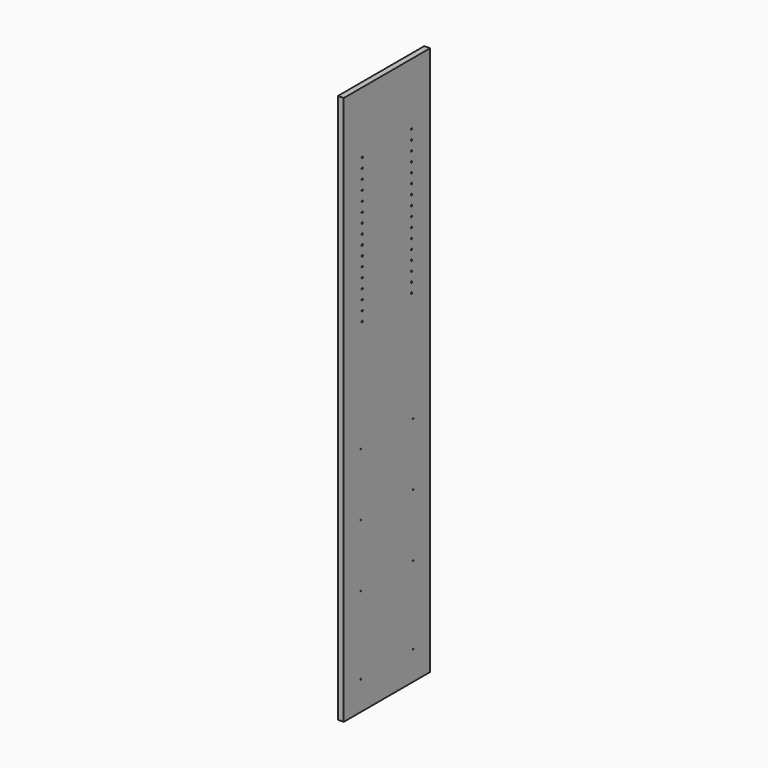
from build123d import *

# Parameters (mm, degrees)
F0_W     = 355.6
F0_H     = 1809.75
F1_DEPTH = 19.05
F3_D     = 5.0038
F3_DEPTH = 14.224
F3_TIP   = 1.5032931827
F5_D     = 3.175
F5_DEPTH = 14.224
F5_TIP   = 0.9538662327


with BuildPart() as f1:
    # F0 (on Right) → F1 (new body)
    with BuildSketch(Plane.YZ):
        Rectangle(F0_W, F0_H)
    extrude(amount=F1_DEPTH)

    # F3
    with Locations(Plane.YZ.offset(19.05)):
        with Locations((-101.6, 701.675), (-101.6, 669.925), (-101.6, 638.175), (-101.6, 606.425), (-101.6, 574.675), (-101.6, 542.925), (-101.6, 511.175), (-101.6, 479.425), (-101.6, 447.675), (-101.6, 415.925), (-101.6, 384.175), (-101.6, 352.425), (-101.6, 320.675), (-101.6, 288.925), (-101.6, 257.175), (-101.6, 225.425), (101.6, 225.425), (101.6, 257.175), (101.6, 288.925), (101.6, 320.675), (101.6, 352.425), (101.6, 384.175), (101.6, 415.925), (101.6, 447.675), (101.6, 479.425), (101.6, 511.175), (101.6, 542.925), (101.6, 574.675), (101.6, 606.425), (101.6, 638.175), (101.6, 669.925), (101.6, 701.675)):
            Hole(F3_D / 2, depth=F3_DEPTH)
            with Locations((0, 0, -(F3_DEPTH + F3_TIP / 2))):  # 118° drill point
                Cone(0, F3_D / 2, F3_TIP, mode=Mode.SUBTRACT)

    # F5
    with Locations(Plane.YZ.offset(19.05)):
        with Locations((-107.95, -141.605), (107.95, -141.605), (107.95, -347.345), (-107.95, -347.345), (-107.95, -553.085), (107.95, -553.085), (107.95, -809.625), (-107.95, -809.625)):
            Hole(F5_D / 2, depth=F5_DEPTH)
            with Locations((0, 0, -(F5_DEPTH + F5_TIP / 2))):  # 118° drill point
                Cone(0, F5_D / 2, F5_TIP, mode=Mode.SUBTRACT)


solid = f1.part
